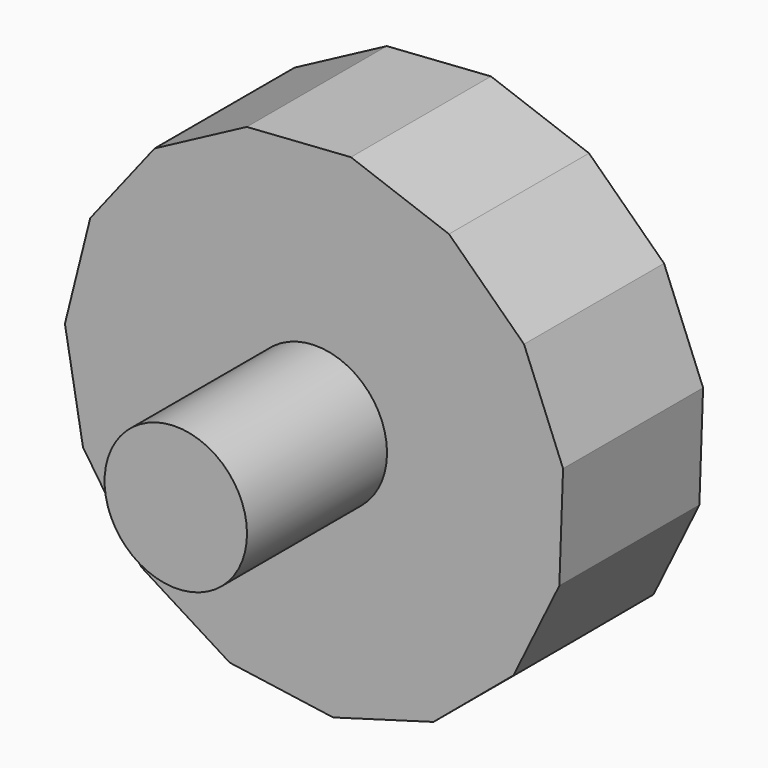
from build123d import *

# Parameters (mm, degrees)
F1_DEPTH = 25.4
F2_R     = 10.336397
F3_DEPTH = 25.4


with BuildPart() as f1:
    # F0 (on Front) → F1 (new body)
    with BuildSketch(Plane.XZ):
        Polygon((19.327994, 30.882117), (5.096112, 36.073621), (-10.016933, 35.027668), (-23.39796, 27.925113), (-32.733267, 15.994053), (-36.408695, 1.297475), (-33.788728, -13.623448), (-25.326384, -26.188753), (-12.484877, -34.225784), (2.515378, -36.344867), (17.080701, -32.179592), (28.692616, -22.450173), (35.343317, -8.838915), (35.882837, 6.300671), (30.217889, 20.350814), align=None)
    extrude(amount=F1_DEPTH)

    # F2 (on face) → F3 (join)
    with BuildSketch(Plane.XZ.offset(25.4)):
        Circle(F2_R)
    extrude(amount=F3_DEPTH)


solid = f1.part
